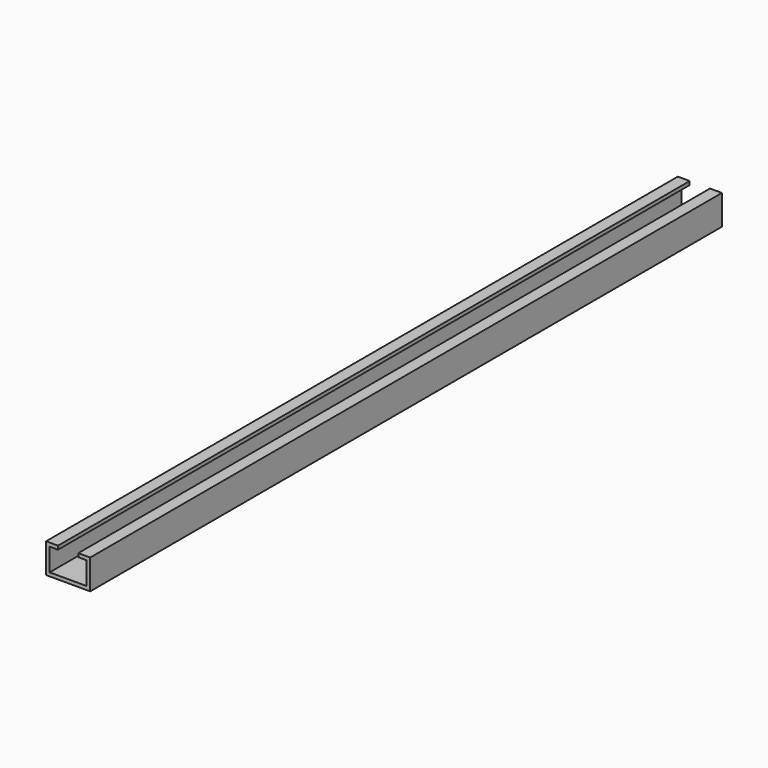
from build123d import *

# Parameters (mm, degrees)
F1_DEPTH = 168.275
F3_D     = 5.08
F3_DEPTH = 25.4
F3_TIP   = 1.5261859723


with BuildPart() as f1:
    # F0 (on Front) → F1 (new body, symmetric)
    with BuildSketch(Plane.XZ):
        Polygon((-30.9100538699, 24.7689448648), (-27.3540538699, 24.7689448648), (-27.3540538699, 26.2929448648), (-32.4340538699, 26.2929448648), (-32.4340538699, 13.5929448648), (-13.6380538699, 13.5929448648), (-13.6380538699, 26.2929448648), (-18.7180538699, 26.2929448648), (-18.7180538699, 24.7689448648), (-15.1620538699, 24.7689448648), (-15.1620538699, 15.1169448648), (-30.9100538699, 15.1169448648), align=None)
    extrude(amount=F1_DEPTH, both=True)

    # F3
    with Locations(Plane(origin=(0, 0, 13.5929448648), x_dir=(1, 0, 0), z_dir=(0, 0, -1))):
        with Locations((-23.0360538699, 102.235), (-23.0360538699, 27.305), (-23.0360538699, -47.625), (-23.0360538699, -122.555)):
            Hole(F3_D / 2, depth=F3_DEPTH)
            with Locations((0, 0, -(F3_DEPTH + F3_TIP / 2))):  # 118° drill point
                Cone(0, F3_D / 2, F3_TIP, mode=Mode.SUBTRACT)


solid = f1.part
